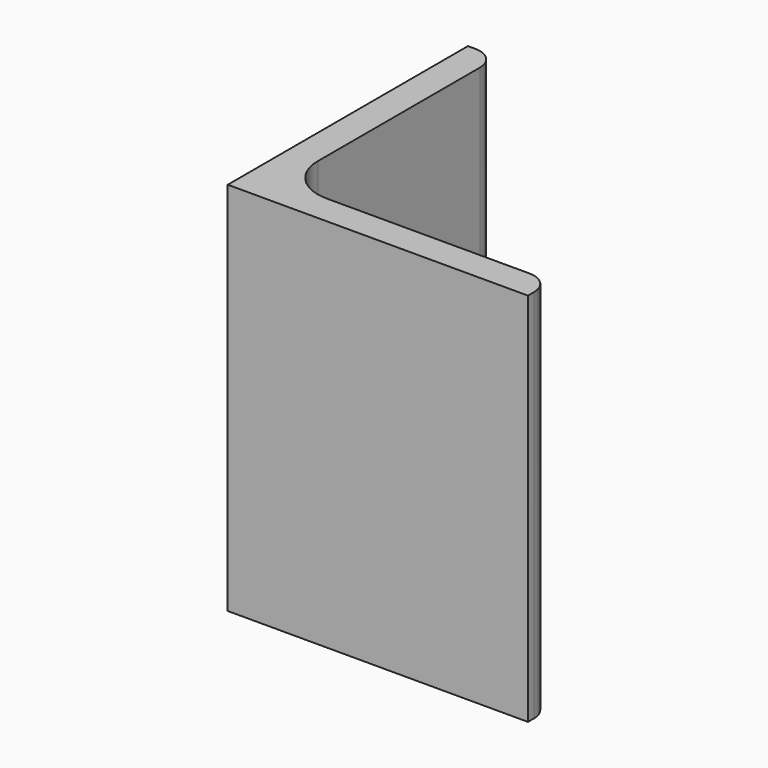
from build123d import *

# Parameters (mm, degrees)
EXTRUDE_DEPTH = 50


with BuildPart() as part:
    # Sketch → Extrude (new body)
    with BuildSketch(Plane.XY):
        with BuildLine():
            Line((0, 0), (40, 0))
            Line((40, 0), (40, 1))
            ThreePointArc((40, 1), (39.12132, 3.12132), (37, 4))
            Line((37, 4), (10, 4))
            ThreePointArc((4, 10), (5.757359, 5.757359), (10, 4))
            Line((4, 37), (4, 10))
            ThreePointArc((4, 37), (3.12132, 39.12132), (1, 40))
            Line((0, 40), (1, 40))
            Line((0, 0), (0, 40))
        make_face()
    extrude(amount=EXTRUDE_DEPTH)


solid = part.part
